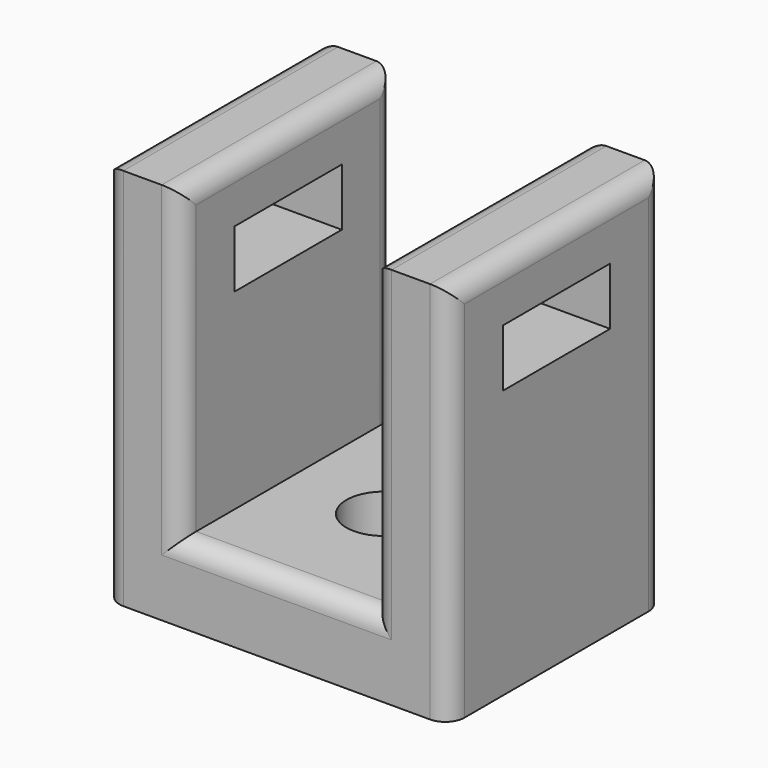
from build123d import *

# Parameters (mm, degrees)
F0_W     = 2
F0_H     = 7
F0_W_2   = 5
F0_R     = 0.98
F1_DEPTH = 2
F2_DEPTH = 8
F3_W     = 3.5
F3_H     = 1.5
F4_DEPTH = 25
F5_R     = 0.5


with BuildPart() as f1:
    # F0 (on Top) → F1 (new body)
    with BuildSketch(Plane.XY):
        with Locations((-3.5, 0)):
            Rectangle(F0_W, F0_H)
        Rectangle(F0_W_2, F0_H)
        Circle(F0_R, mode=Mode.SUBTRACT)
        with Locations((3.5, 0)):
            Rectangle(F0_W, F0_H)
    extrude(amount=-F1_DEPTH)

    # F0 (on Top) → F2 (join)
    with BuildSketch(Plane.XY):
        with Locations((-3.5, 0)):
            Rectangle(F0_W, F0_H)
        with Locations((3.5, 0)):
            Rectangle(F0_W, F0_H)
    extrude(amount=F2_DEPTH)

    # F3 (on face) → F4 (cut)
    with BuildSketch(Plane(origin=(-4.5, 0, 0), x_dir=(0, -1, 0), z_dir=(-1, 0, 0))):
        with Locations((0, 5.75)):
            Rectangle(F3_W, F3_H)
    extrude(amount=-F4_DEPTH, mode=Mode.SUBTRACT)

    # F5
    f5_edges = [f1.edges().sort_by_distance(p)[0] for p in [
        (-2.5, -3.5, 4),
        (-4.5, 0, 8),
        (-2.5, 0, 8),
        (2.5, 0, 8),
        (4.5, 0, 8),
        (2.5, -3.5, 4),
        (4.5, -3.5, 3),
        (-4.5, -3.5, 3),
        (-4.5, 3.5, 3),
        (2.5, 3.5, 4),
        (4.5, 3.5, 3),
        (-2.5, 3.5, 4),
        (0, -3.5, 0),
        (0, 3.5, 0),
    ]]
    fillet(f5_edges, radius=F5_R)


solid = f1.part
